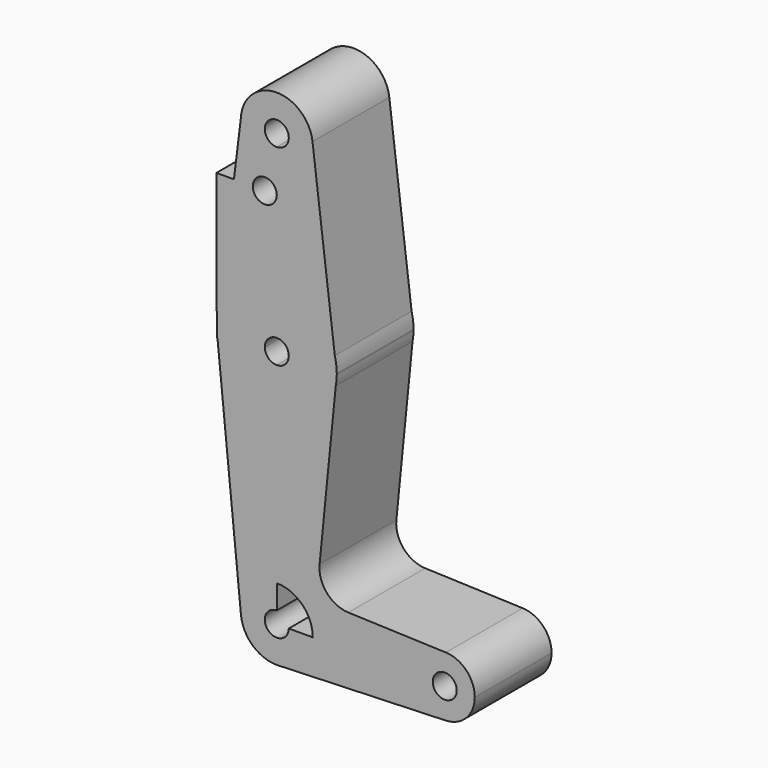
from build123d import *

# Parameters (mm, degrees)
F1_DEPTH = 25.4


with BuildPart() as f1:
    # F0 (on Front) → F1 (new body)
    with BuildSketch(Plane.XZ):
        with BuildLine():
            ThreePointArc((-52.0172687801, 81.2818133401), (-49.3458247703, 74.3394078839), (-42.4977149845, 71.434756618))
            ThreePointArc((-42.4977149845, 71.434756618), (-35.7625228936, 74.2245645272), (-32.9727149845, 80.959756618))
            ThreePointArc((-32.9727149845, 80.959756618), (-32.9905719815, 81.5427291051), (-33.0440760177, 82.1235157365))
            ThreePointArc((-33.0440760177, 82.1235157365), (-42.9198546796, 90.4753975884), (-52.0172687801, 81.2818133401))
        make_face()
        with BuildLine():
            ThreePointArc((-39.3227149845, 80.959756618), (-40.2526509542, 78.7146925877), (-42.4977149845, 77.784756618))
            ThreePointArc((-42.4977149845, 77.784756618), (-44.7427790147, 83.2048206483), (-39.3227149845, 80.959756618))
        make_face(mode=Mode.SUBTRACT)
        with BuildLine():
            ThreePointArc((-32.9727149845, 80.959756618), (-35.7625228936, 74.2245645272), (-42.4977149845, 71.434756618))
            Line((-42.4977149845, 71.434756618), (-42.4977149845, 66.5762349963))
            Line((-42.4977149845, 66.5762349963), (-42.4977149845, 46.034756618))
            ThreePointArc((-42.4977149845, 46.034756618), (-32.8030742088, 42.7307376947), (-27.1438698523, 34.1939931824))
            Line((-27.1438698523, 34.1939931824), (-33.0440760177, 82.1235157365))
            ThreePointArc((-33.0440760177, 82.1235157365), (-32.9905719815, 81.5427291051), (-32.9727149845, 80.959756618))
        make_face()
        with BuildLine():
            Line((-42.4977149845, 66.5762349963), (-42.4977149845, 71.434756618))
            ThreePointArc((-42.4977149845, 71.434756618), (-49.3458247703, 74.3394078839), (-52.0172687801, 81.2818133401))
            Line((-52.0172687801, 81.2818133401), (-53.8383551377, 66.5762349963))
            Line((-53.8383551377, 66.5762349963), (-48.8477149845, 66.5762349963))
            ThreePointArc((-48.8477149845, 66.5762349963), (-45.6727149845, 69.7512349963), (-42.4977149845, 66.5762349963))
        make_face()
        with BuildLine():
            Line((-42.4977149845, 46.034756618), (-42.4977149845, 66.5762349963))
            ThreePointArc((-42.4977149845, 66.5762349963), (-45.6727149845, 63.4012349963), (-48.8477149845, 66.5762349963))
            Line((-48.8477149845, 66.5762349963), (-53.8383551377, 66.5762349963))
            Line((-53.8383551377, 66.5762349963), (-57.8457049599, 34.2162118086))
            ThreePointArc((-57.8457049599, 34.2162118086), (-52.1832557244, 42.7377503203), (-42.4977149845, 46.034756618))
        make_face()
        with BuildLine():
            ThreePointArc((-27.1438698523, 34.1939931824), (-32.8030742088, 42.7307376947), (-42.4977149845, 46.034756618))
            Line((-42.4977149845, 46.034756618), (-42.4977149845, 33.334756618))
            ThreePointArc((-42.4977149845, 33.334756618), (-40.2526509542, 32.4048206483), (-39.3227149845, 30.159756618))
            ThreePointArc((-39.3227149845, 30.159756618), (-40.2526509542, 27.9146925877), (-42.4977149845, 26.984756618))
            Line((-42.4977149845, 26.984756618), (-42.4977149845, 14.284756618))
            ThreePointArc((-42.4977149845, 14.284756618), (-32.3661147425, 17.938205917), (-26.8978578456, 27.2169548495))
            Line((-26.8978578456, 27.2169548495), (-26.6238526602, 29.9697042274))
            Line((-26.6238526602, 29.9697042274), (-27.1438698523, 34.1939931824))
        make_face()
        with BuildLine():
            Line((-42.4977149845, 33.334756618), (-42.4977149845, 46.034756618))
            ThreePointArc((-42.4977149845, 46.034756618), (-52.1832557244, 42.7377503203), (-57.8457049599, 34.2162118086))
            Line((-57.8457049599, 34.2162118086), (-58.3715773087, 29.9697042274))
            Line((-58.3715773087, 29.9697042274), (-45.6724874493, 30.1217461399))
            ThreePointArc((-45.6724874493, 30.1217461399), (-44.7561777656, 32.3913414508), (-42.4977149845, 33.334756618))
        make_face()
        with BuildLine():
            Line((-57.8457049599, 34.2162118086), (-53.8383551377, 66.5762349963))
            Line((-53.8383551377, 66.5762349963), (-58.4647879004, 66.5762349963))
            Line((-58.4647879004, 66.5762349963), (-58.3723393199, 30.2689683726))
            ThreePointArc((-58.3723393199, 30.2689683726), (-58.2332827781, 32.259168729), (-57.8457049599, 34.2162118086))
        make_face()
        with BuildLine():
            ThreePointArc((-26.6227149845, 30.159756618), (-26.7535427853, 32.1936363498), (-27.1438698523, 34.1939931824))
            Line((-27.1438698523, 34.1939931824), (-26.6238526602, 29.9697042274))
            ThreePointArc((-26.6238526602, 29.9697042274), (-26.6229994059, 30.0647287202), (-26.6227149845, 30.159756618))
        make_face()
        with BuildLine():
            Line((-58.3715773087, 29.9697042274), (-57.8457049599, 34.2162118086))
            ThreePointArc((-57.8457049599, 34.2162118086), (-58.2332827781, 32.259168729), (-58.3723393199, 30.2689683726))
            Line((-58.3723393199, 30.2689683726), (-58.3715773087, 29.9697042274))
        make_face()
        with BuildLine():
            ThreePointArc((-42.4977149845, 26.984756618), (-44.7292998173, 27.9012938368), (-45.6724874493, 30.1217461399))
            Line((-45.6724874493, 30.1217461399), (-58.3715773087, 29.9697042274))
            Line((-58.3715773087, 29.9697042274), (-58.0975721233, 27.2169548495))
            ThreePointArc((-58.0975721233, 27.2169548495), (-52.6293152264, 17.938205917), (-42.4977149845, 14.284756618))
            Line((-42.4977149845, 14.284756618), (-42.4977149845, 26.984756618))
        make_face()
        with BuildLine():
            ThreePointArc((-26.8978578456, 27.2169548495), (-26.7007797914, 28.5873497031), (-26.6238526602, 29.9697042274))
            Line((-26.6238526602, 29.9697042274), (-26.8978578456, 27.2169548495))
        make_face()
        with BuildLine():
            Line((-58.3715773087, 29.9697042274), (-58.3723393199, 30.2689683726))
            ThreePointArc((-58.3723393199, 30.2689683726), (-58.3726635215, 30.1193345043), (-58.3715773087, 29.9697042274))
        make_face()
        with BuildLine():
            Line((-58.0975721233, 27.2169548495), (-58.3715773087, 29.9697042274))
            ThreePointArc((-58.3715773087, 29.9697042274), (-58.2946501775, 28.5873497031), (-58.0975721233, 27.2169548495))
        make_face()
        with BuildLine():
            Line((-31.1754582696, -15.7572753204), (-26.8978578456, 27.2169548495))
            ThreePointArc((-26.8978578456, 27.2169548495), (-32.3661147425, 17.938205917), (-42.4977149845, 14.284756618))
            Line((-42.4977149845, 14.284756618), (-42.4977149845, -23.815243382))
            ThreePointArc((-42.4977149845, -23.815243382), (-35.7625228936, -26.6050512912), (-32.9727149845, -33.340243382))
            Line((-32.9727149845, -33.340243382), (-5.9852149845, -33.340243382))
            ThreePointArc((-5.9852149845, -33.340243382), (-3.5596254692, -27.6286105981), (2.2346902901, -25.4077687674))
            Line((2.2346902901, -25.4077687674), (-23.5472102479, -24.4899032773))
            ThreePointArc((-23.5472102479, -24.4899032773), (-29.2518360827, -21.7750070473), (-31.1754582696, -15.7572753204))
        make_face()
        with BuildLine():
            ThreePointArc((-42.4977149845, 14.284756618), (-52.6293152264, 17.938205917), (-58.0975721233, 27.2169548495))
            Line((-58.0975721233, 27.2169548495), (-51.9758761003, -34.2836875309))
            ThreePointArc((-51.9758761003, -34.2836875309), (-49.5585906567, -26.9473051107), (-42.4977149845, -23.815243382))
            Line((-42.4977149845, -23.815243382), (-42.4977149845, 14.284756618))
        make_face()
        with BuildLine():
            ThreePointArc((-42.4977149845, -23.815243382), (-49.5585906567, -26.9473051107), (-51.9758761003, -34.2836875309))
            ThreePointArc((-51.9758761003, -34.2836875309), (-48.8906532558, -40.4011190543), (-42.4977149845, -42.865243382))
            Line((-42.4977149845, -42.865243382), (-41.8203714366, -42.841129168))
            ThreePointArc((-41.8203714366, -42.841129168), (-35.527158253, -39.8315424703), (-32.9727149845, -33.340243382))
            Line((-32.9727149845, -33.340243382), (-39.3227149845, -33.340243382))
            ThreePointArc((-39.3227149845, -33.340243382), (-44.7427790147, -35.5853074123), (-42.4977149845, -30.165243382))
            Line((-42.4977149845, -30.165243382), (-42.4977149845, -23.815243382))
        make_face()
        with BuildLine():
            Line((-41.8203714366, -42.841129168), (-42.4977149845, -42.865243382))
            ThreePointArc((-42.4977149845, -42.865243382), (-42.158828655, -42.8592129195), (-41.8203714366, -42.841129168))
        make_face()
        with BuildLine():
            Line((-5.9852149845, -33.340243382), (-32.9727149845, -33.340243382))
            ThreePointArc((-32.9727149845, -33.340243382), (-35.527158253, -39.8315424703), (-41.8203714366, -42.841129168))
            Line((-41.8203714366, -42.841129168), (2.2346902901, -41.2727179966))
            ThreePointArc((2.2346902901, -41.2727179966), (-3.5596254692, -39.0518761659), (-5.9852149845, -33.340243382))
        make_face()
        with BuildLine():
            ThreePointArc((9.8897850155, -33.340243382), (7.6639177995, -27.8283328973), (2.2346902901, -25.4077687674))
            ThreePointArc((2.2346902901, -25.4077687674), (-3.5596254692, -27.6286105981), (-5.9852149845, -33.340243382))
            ThreePointArc((-5.9852149845, -33.340243382), (-3.5596254692, -39.0518761659), (2.2346902901, -41.2727179966))
            ThreePointArc((2.2346902901, -41.2727179966), (7.6639177995, -38.8521538667), (9.8897850155, -33.340243382))
        make_face()
        with BuildLine():
            ThreePointArc((5.1272850155, -33.340243382), (1.9522850155, -36.515243382), (-1.2227149845, -33.340243382))
            ThreePointArc((-1.2227149845, -33.340243382), (1.9522850155, -30.165243382), (5.1272850155, -33.340243382))
        make_face(mode=Mode.SUBTRACT)
    extrude(amount=F1_DEPTH)


solid = f1.part
